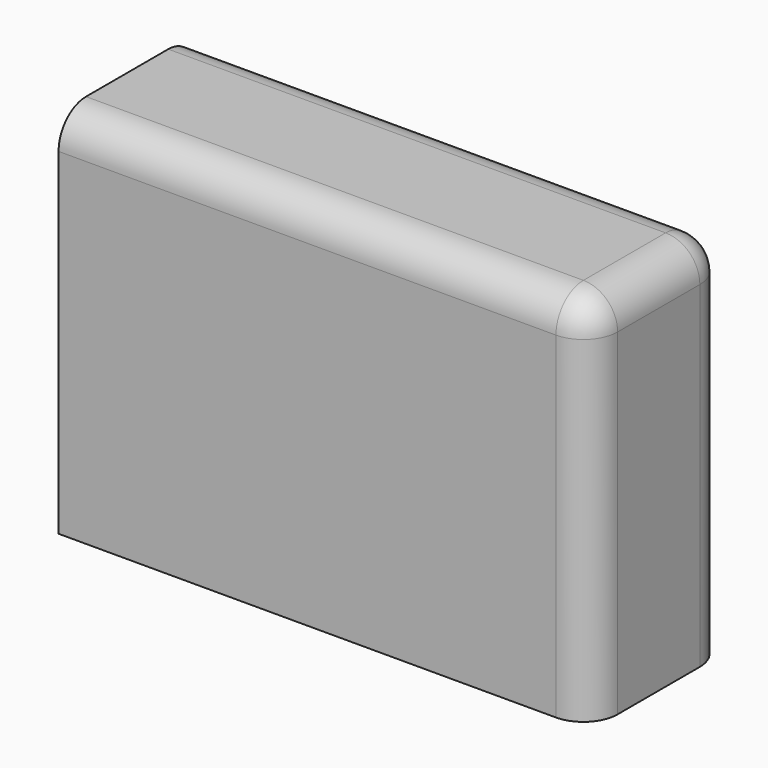
from build123d import *

# Parameters (mm, degrees)
F0_W     = 78.822747
F0_H     = 54.992616
F1_DEPTH = 25.4
F2_R     = 5.08


with BuildPart() as f1:
    # F0 (on Front) → F1 (new body)
    with BuildSketch(Plane.XZ):
        with Locations((6.049194, -5.13266)):
            Rectangle(F0_W, F0_H)
    extrude(amount=F1_DEPTH)

    # F2
    f2_edges = [f1.edges().sort_by_distance(p)[0] for p in [
        (6.049193, -25.4, 22.363648),
        (45.460567, 0, -5.13266),
        (45.460567, -25.4, -5.13266),
        (6.049193, 0, 22.363648),
        (45.460567, -12.7, 22.363648),
    ]]
    fillet(f2_edges, radius=F2_R)


solid = f1.part
